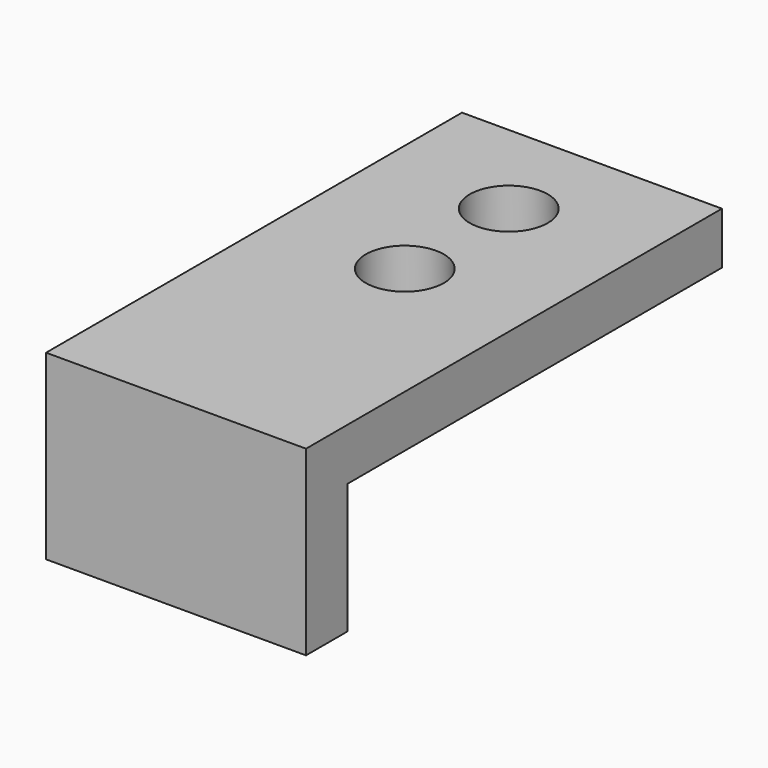
from build123d import *

# Parameters (mm, degrees)
F1_DEPTH = 10
F2_R     = 1.5
F3_DEPTH = 25


with BuildPart() as f1:
    # F0 (on Right) → F1 (new body)
    with BuildSketch(Plane.YZ):
        Polygon((20, 0), (0, 0), (0, -7), (2, -7), (2, -2), (20, -2), align=None)
    extrude(amount=F1_DEPTH)

    # F2 (on face) → F3 (cut)
    with BuildSketch(Plane.XY):
        with Locations((5, 16)):
            Circle(F2_R)
        with Locations((5, 11)):
            Circle(F2_R)
    extrude(amount=-F3_DEPTH, mode=Mode.SUBTRACT)


solid = f1.part
